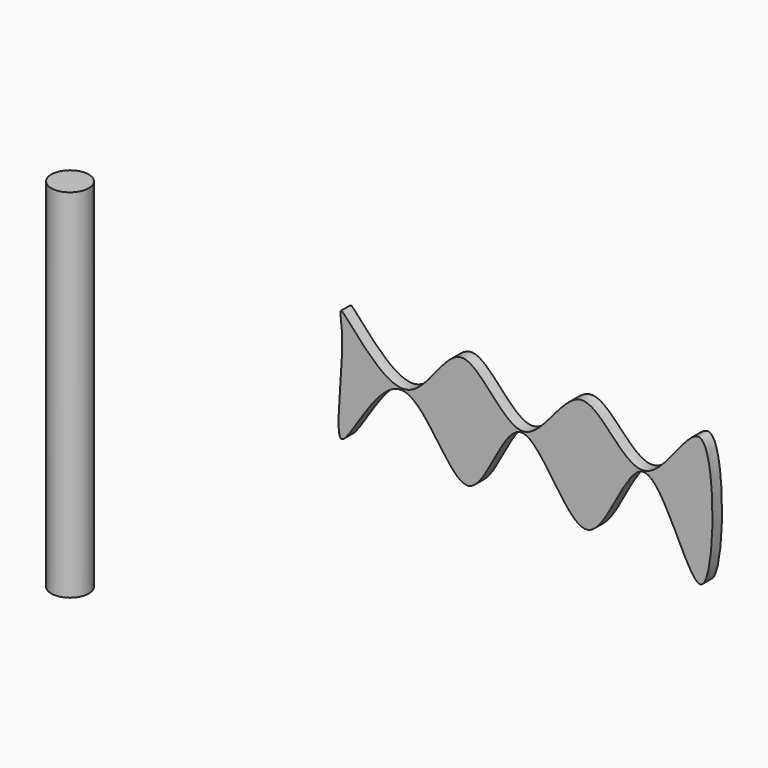
from build123d import *

# Parameters (mm, degrees)
F0_R     = 3.9943447122
F1_DEPTH = 76.2
F3_DEPTH = 2.54


with BuildPart() as f1:
    # F0 (on Top) → F1 (new body)
    with BuildSketch(Plane.XY):
        with Locations((-60.1359941065, 0)):
            Circle(F0_R)
    extrude(amount=F1_DEPTH)


with BuildPart() as f3:
    # F2 (on Front) → F3 (new body)
    with BuildSketch(Plane.XZ):
        with BuildLine():
            add(Edge.make_bspline(
                [(0, 72.2983106971), (1.4860231047, 71.2995637989), (14.6039321002, 52.4219050579), (24.9844182184, 81.6189272388), (38.8151061905, 52.5927901966), (51.0277392071, 82.0615684658), (64.3155756029, 53.0784020937), (80.3130096606, 89.4547552971), (79.4316747098, 25.4303587778), (64.2736129939, 79.0559404786), (52.9528785094, 33.7460442355), (37.5279958288, 75.7539922427), (27.4182998764, 34.8040096471), (13.1043059844, 75.0354730864), (-3.8745497698, 35.4514472809), (1.2584649307, 67.0648433302), (-0.7958712467, 72.8332108184), (0, 72.2983106971)],
                knots=[0, 0, 0, 0, 0.0657723099, 0.1297822347, 0.1944629872, 0.2590126925, 0.3234672632, 0.3869387708, 0.4711444179, 0.5446935988, 0.615195595, 0.6864477144, 0.7542421364, 0.8255159661, 0.8943227396, 0.964774242, 1, 1, 1, 1], degree=3))
        make_face()
    extrude(amount=F3_DEPTH)


solid = Compound([f1.part, f3.part])
